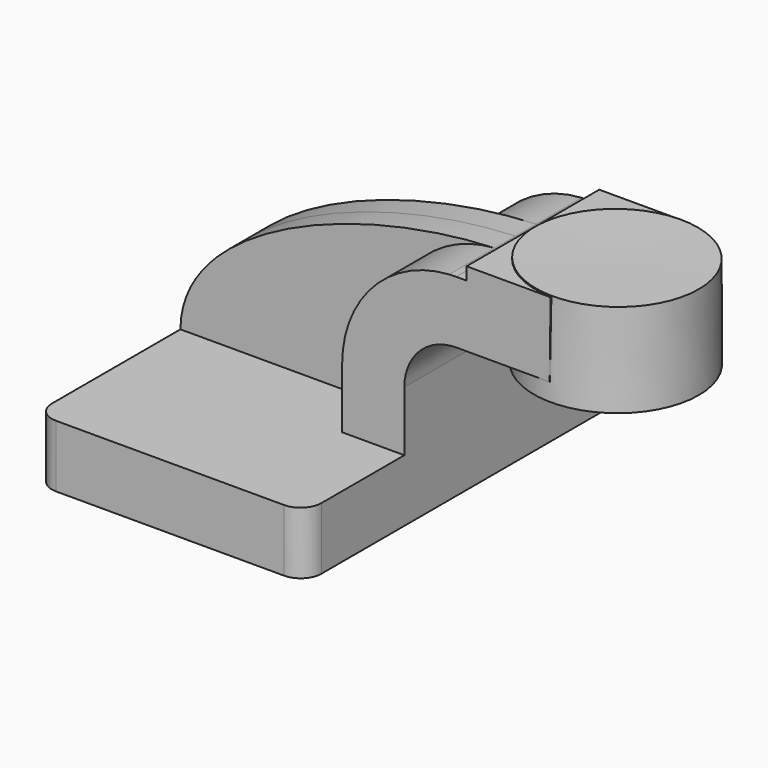
from build123d import *

# Parameters (mm, degrees)
F1_DEPTH = 63.5
F2_DEPTH = 25.4
F3_DEPTH = 7.9375
F5_R     = 6.35


with BuildPart() as f1:
    # F0 (on Front) → F1 (new body, symmetric)
    with BuildSketch(Plane.XZ):
        Polygon((22.225, 9.525), (-41.275, 9.525), (-41.275, -9.525), (41.275, -9.525), (41.275, 9.525), align=None)
    extrude(amount=F1_DEPTH, both=True)

    # F0 (on Front) → F2 (join, symmetric)
    with BuildSketch(Plane.XZ):
        with BuildLine():
            Line((22.225, 27.8803942589), (22.225, 9.525))
            Line((22.225, 9.525), (41.275, 9.525))
            Line((41.275, 9.525), (41.275, 27.8803942589))
            ThreePointArc((41.275, 27.8803942589), (45.9246798487, 39.1057144102), (57.15, 43.7553942589))
            Line((57.15, 43.7553942589), (60.325, 43.7553942589))
            Line((60.325, 43.7553942589), (60.325, 62.8053942589))
            Line((60.325, 62.8053942589), (57.15, 62.8053942589))
            add(Edge.make_bspline(
                [(54.9804315881, 62.7379414747), (55.7065758569, 62.765977986), (56.4298660875, 62.7884783704), (57.15, 62.8053942589)],
                knots=[110.0629711844, 110.0629711844, 110.0629711844, 110.0629711844, 111.9208695346, 111.9208695346, 111.9208695346, 111.9208695346], degree=3))
            ThreePointArc((54.9804315881, 62.7379414747), (31.6987937242, 51.7967427282), (22.225, 27.8803942589))
        make_face()
        Polygon((60.325, 66.675), (60.325, 62.8053942589), (60.325, 43.7553942589), (85.7897415942, 43.7553942589), (86.0521197319, 66.675), align=None)
    extrude(amount=F2_DEPTH, both=True)

    # F0 (on Front) → F3 (join, symmetric)
    with BuildSketch(Plane.XZ):
        with BuildLine():
            add(Edge.make_bspline(
                [(-41.275, 9.525), (-41.0700733104, 39.9874044881), (11.9632257601, 61.0770423539), (54.9804315881, 62.7379414747)],
                knots=[0, 0, 0, 0, 110.0629711844, 110.0629711844, 110.0629711844, 110.0629711844], degree=3))
            Line((-41.275, 9.525), (22.225, 9.525))
            Line((22.225, 9.525), (22.225, 27.8803942589))
            ThreePointArc((22.225, 27.8803942589), (31.6987937242, 51.7967427282), (54.9804315881, 62.7379414747))
        make_face()
    extrude(amount=F3_DEPTH, both=True)

    # F0 (on Front) → F4 (revolve)
    with BuildSketch(Plane.XZ):
        Polygon((86.0521197319, 66.675), (85.7897415942, 43.7553942589), (85.725, 38.1), (111.125, 38.1), (111.125, 66.675), align=None)
    revolve(axis=Axis((85.888559866, 0, 52.3875), (0.0114470096, 0, 0.9999344808)))

    # F5
    f5_edges = [f1.edges().sort_by_distance(p)[0] for p in [
        (41.275, -63.5, 0),
        (-41.275, -63.5, 0),
        (-41.275, 63.5, 0),
        (41.275, 63.5, 0),
    ]]
    fillet(f5_edges, radius=F5_R)


solid = f1.part
